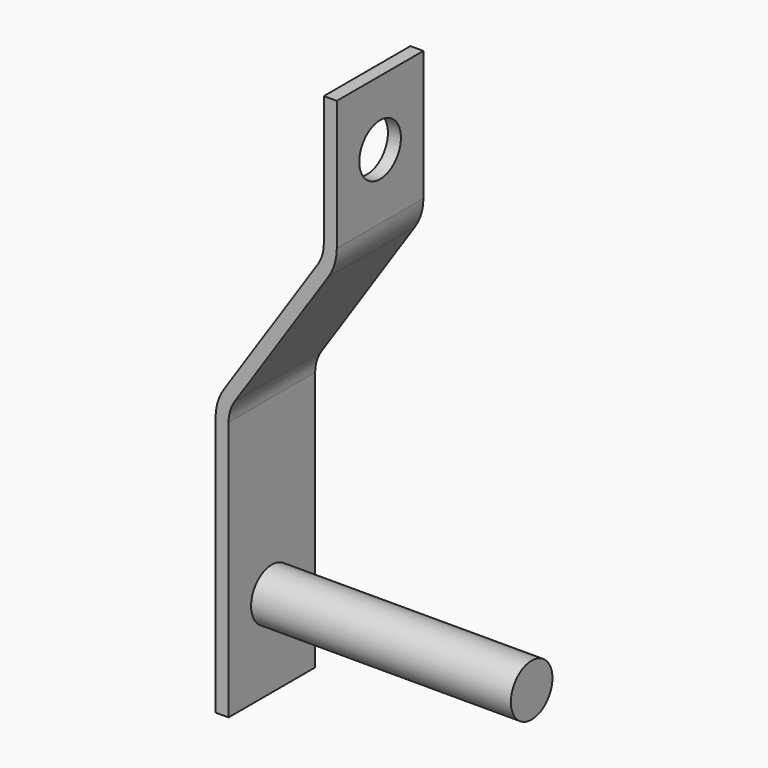
from build123d import *

# Parameters (mm, degrees)
F0_W     = 3
F0_H     = 25
F3_R     = 6
F4_DEPTH = 60
F5_R     = 6
F6_DEPTH = 25
F8_DEPTH = 25
F9_DEPTH = 25


with BuildPart() as f2:
    # F2: sweep along a path in F1
    with BuildLine(Plane.XZ) as f2_path:
        Line((0, 0), (0, 60))
        ThreePointArc((0, 60), (0.430571022, 62.9027623113), (1.6852058072, 65.5555555556))
        Line((1.6852058072, 65.5555555556), (23.3147941928, 97.927759218))
        ThreePointArc((23.3147941928, 97.927759218), (24.569428978, 100.5805524623), (25, 103.4833147735))
        Line((25, 103.4833147735), (25, 133.4833147735))
    # F0 (on Top) → F2 (sweep)
    with BuildSketch(Plane.XY):
        Rectangle(F0_W, F0_H)
    sweep(path=f2_path.line)

    # F3 (on face) → F4 (join)
    with BuildSketch(Plane.YZ.offset(1.5)):
        with Locations((0, 20)):
            Circle(F3_R)
    extrude(amount=F4_DEPTH)

    # F5 (on face) → F6 (cut)
    with BuildSketch(Plane.YZ.offset(26.5)):
        with Locations((0, 118.4833147735)):
            Circle(F5_R)
    extrude(amount=-F6_DEPTH, mode=Mode.SUBTRACT)


with BuildPart() as f7:
    # F7: sweep along a path in F1
    with BuildLine(Plane.XZ) as f7_path:
        Line((0, 0), (0, 60))
        ThreePointArc((0, 60), (0.430571022, 62.9027623113), (1.6852058072, 65.5555555556))
        Line((1.6852058072, 65.5555555556), (23.3147941928, 97.927759218))
        ThreePointArc((23.3147941928, 97.927759218), (24.569428978, 100.5805524623), (25, 103.4833147735))
        Line((25, 103.4833147735), (25, 133.4833147735))
    # F0 (on Top) → F7 (sweep)
    with BuildSketch(Plane.XY):
        Rectangle(F0_W, F0_H)
    sweep(path=f7_path.line)

    # F5 (on face) → F8 (cut)
    with BuildSketch(Plane.YZ.offset(26.5)):
        with Locations((0, 118.4833147735)):
            Circle(F5_R)
    extrude(amount=-F8_DEPTH, mode=Mode.SUBTRACT)

    # F3 (on face) → F9 (cut)
    with BuildSketch(Plane.YZ.offset(1.5)):
        with Locations((0, 20)):
            Circle(F3_R)
    extrude(amount=-F9_DEPTH, mode=Mode.SUBTRACT)


solid = Compound([f2.part, f7.part])
